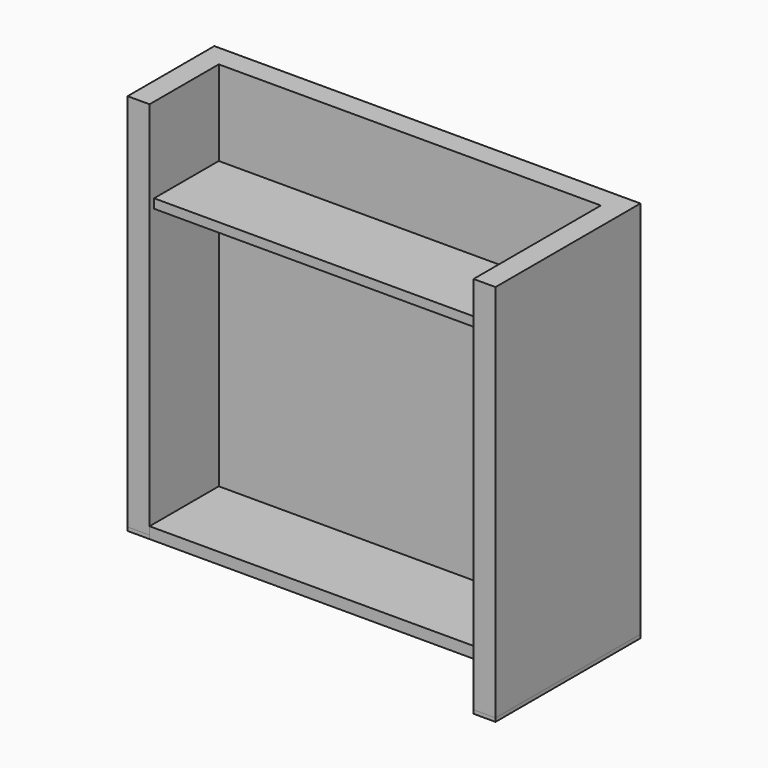
from build123d import *

# Parameters (mm, degrees)
F2_DEPTH = 2700
F0_W     = 2695
F0_H     = 610
F3_DEPTH = 80
F4_DEPTH = 25
F5_W     = 2695
F5_H     = 65
F6_DEPTH = 570


with BuildPart() as f2:
    # F1 (on Top) → F2 (new body)
    with BuildSketch(Plane.XY):
        Polygon((-1502.5, -305), (-1347.5, -305), (-1347.5, 305), (1347.5, 305), (1347.5, -817.318022), (1502.5, -817.318022), (1502.5, 460), (-1502.5, 460), align=None)
    extrude(amount=F2_DEPTH)

    # F5 (on face) → F6 (join)
    with BuildSketch(Plane.XZ.offset(-305)):
        with Locations((0, 2067.5)):
            Rectangle(F5_W, F5_H)
    extrude(amount=F6_DEPTH)


with BuildPart() as f3:
    # F0 (on Top) → F3 (new body)
    with BuildSketch(Plane.XY):
        Rectangle(F0_W, F0_H)
    extrude(amount=F3_DEPTH)


with BuildPart() as f4:
    # F1 (on Top) → F4 (new body)
    with BuildSketch(Plane.XY):
        Polygon((-1502.5, -305), (-1347.5, -305), (-1347.5, 305), (1347.5, 305), (1347.5, -817.318022), (1502.5, -817.318022), (1502.5, 460), (-1502.5, 460), align=None)
    extrude(amount=F4_DEPTH)


solid = Compound([f2.part, f3.part, f4.part])
